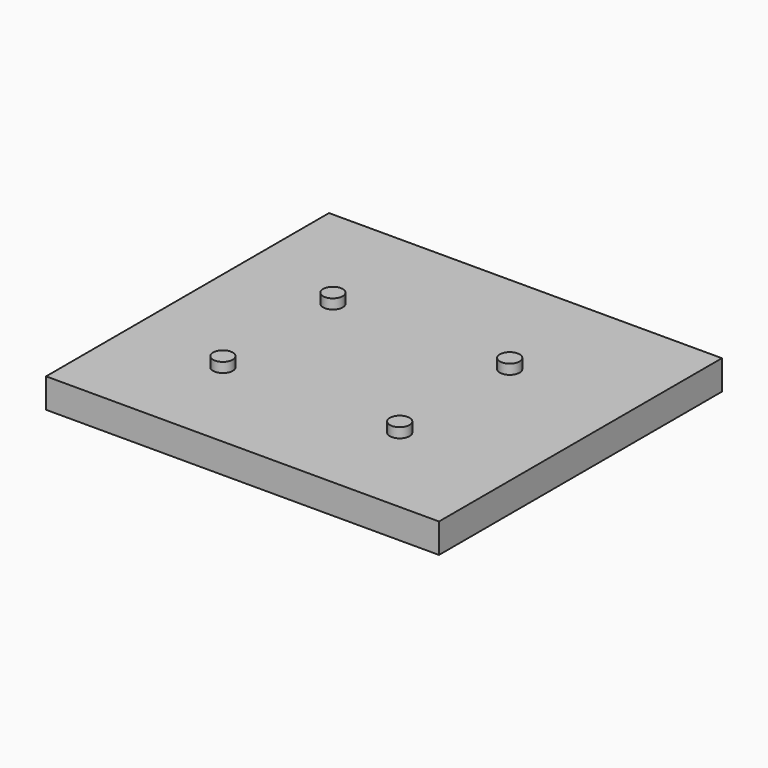
from build123d import *

# Parameters (mm, degrees)
F0_W     = 200
F0_H     = 180
F1_DEPTH = 15
F2_R     = 5
F3_DEPTH = 5


with BuildPart() as f1:
    # F0 (on Top) → F1 (new body)
    with BuildSketch(Plane.XY):
        Rectangle(F0_W, F0_H)
    extrude(amount=F1_DEPTH)

    # F2 (on face) → F3 (join)
    with BuildSketch(Plane.XY.offset(15)):
        with Locations((-50, -40)):
            Circle(F2_R)
        with Locations((40, -40)):
            Circle(F2_R)
        with Locations((-50, 30)):
            Circle(F2_R)
        with Locations((40, 30)):
            Circle(F2_R)
    extrude(amount=F3_DEPTH)


solid = f1.part
